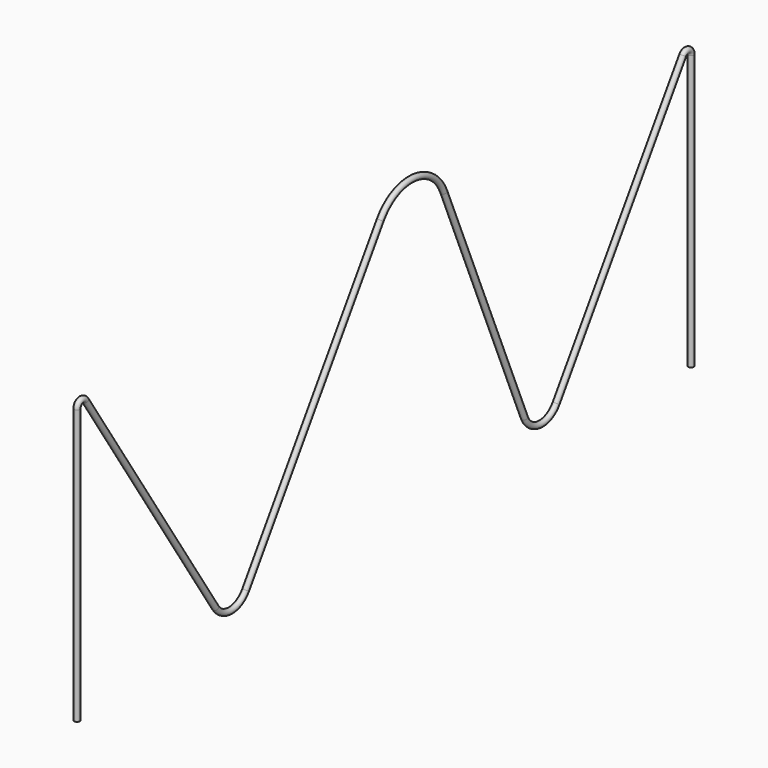
from build123d import *

# Parameters (mm, degrees)
F1_R = 3.175


with BuildPart() as f2:
    # F2: sweep along a path in F0
    with BuildLine(Plane.YZ) as f2_path:
        Line((0, 0), (0, 308.88475))
        ThreePointArc((0, 308.88475), (4.53702, 314.970438), (11.664757, 312.359783))
        Line((11.664757, 312.359783), (194.640972, 32.513808))
        ThreePointArc((194.640972, 32.513808), (215.9, 21.013942), (237.159028, 32.513808))
        Line((237.159028, 32.513808), (426.485243, 322.071548))
        ThreePointArc((426.485243, 322.071548), (473.605436, 344.86239), (515.839773, 313.943208))
        Line((515.839773, 313.943208), (629.186259, 44.078972))
        ThreePointArc((629.186259, 44.078972), (650.303428, 28.619381), (673.863524, 40.014802))
        Line((673.863524, 40.014802), (851.935243, 312.359783))
        ThreePointArc((851.935243, 312.359783), (859.06298, 314.970438), (863.6, 308.88475))
        Line((863.6, 308.88475), (863.6, 0))
    # F1 (on Top) → F2 (sweep)
    with BuildSketch(Plane.XY):
        Circle(F1_R)
    sweep(path=f2_path.line)


solid = f2.part
